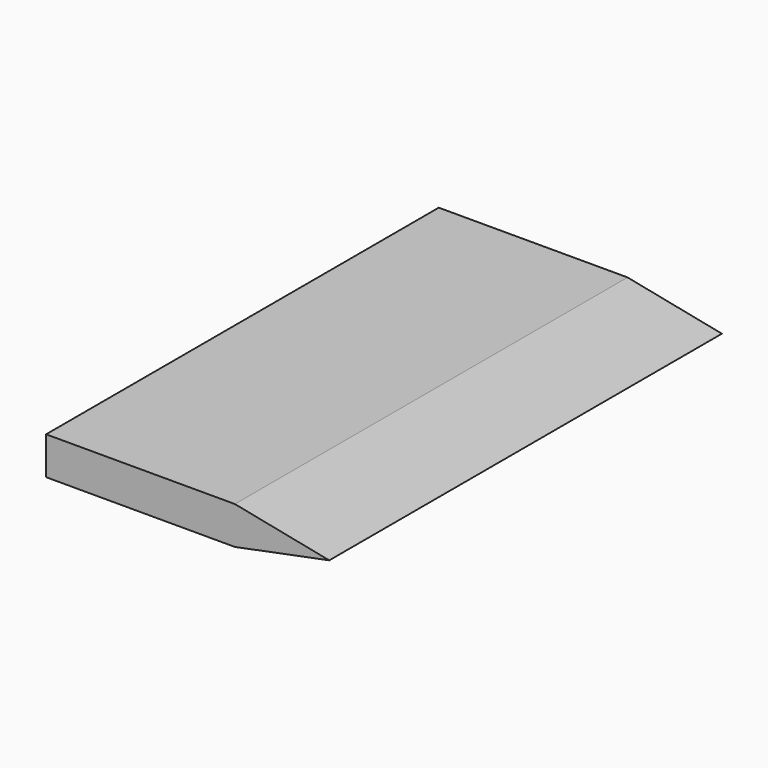
from build123d import *

# Parameters (mm, degrees)
F1_DEPTH = 260


with BuildPart() as f1:
    # F0 (on Front) → F1 (new body)
    with BuildSketch(Plane.XZ):
        Polygon((0, 20), (0, 0), (100, 0), (100, 10), (100, 20), align=None)
        Polygon((100, 20), (100, 10), (150, 10), align=None)
        Polygon((100, 10), (100, 0), (150, 10), align=None)
    extrude(amount=F1_DEPTH)


solid = f1.part
